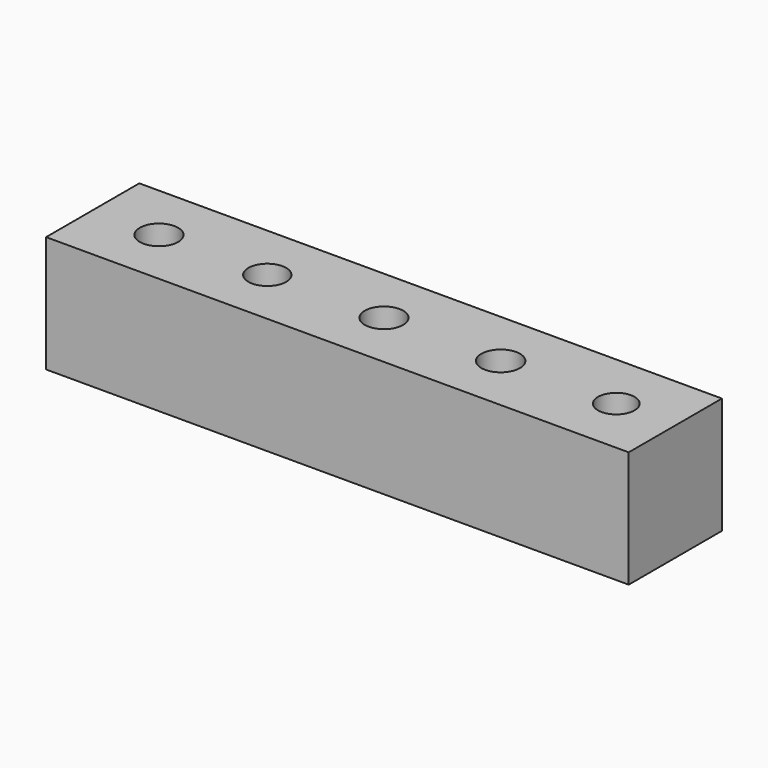
from build123d import *

# Parameters (mm, degrees)
SKETCH_W      = 50
SKETCH_H      = 10
SKETCH_R      = 1.65
SKETCH_R_2    = 1.623146
SKETCH_R_3    = 1.660457
SKETCH_R_4    = 1.568869
EXTRUDE_DEPTH = 10


with BuildPart() as part:
    # Sketch → Extrude (new body)
    with BuildSketch(Plane.XY):
        Rectangle(SKETCH_W, SKETCH_H)
        Circle(SKETCH_R, mode=Mode.SUBTRACT)
        with Locations((-10, -0.018389)):
            Circle(SKETCH_R_2, mode=Mode.SUBTRACT)
        with Locations((-19.296049, -0.018389)):
            Circle(SKETCH_R, mode=Mode.SUBTRACT)
        with Locations((10.012862, 0)):
            Circle(SKETCH_R_3, mode=Mode.SUBTRACT)
        with Locations((19.933031, 0)):
            Circle(SKETCH_R_4, mode=Mode.SUBTRACT)
    extrude(amount=EXTRUDE_DEPTH)


solid = part.part
